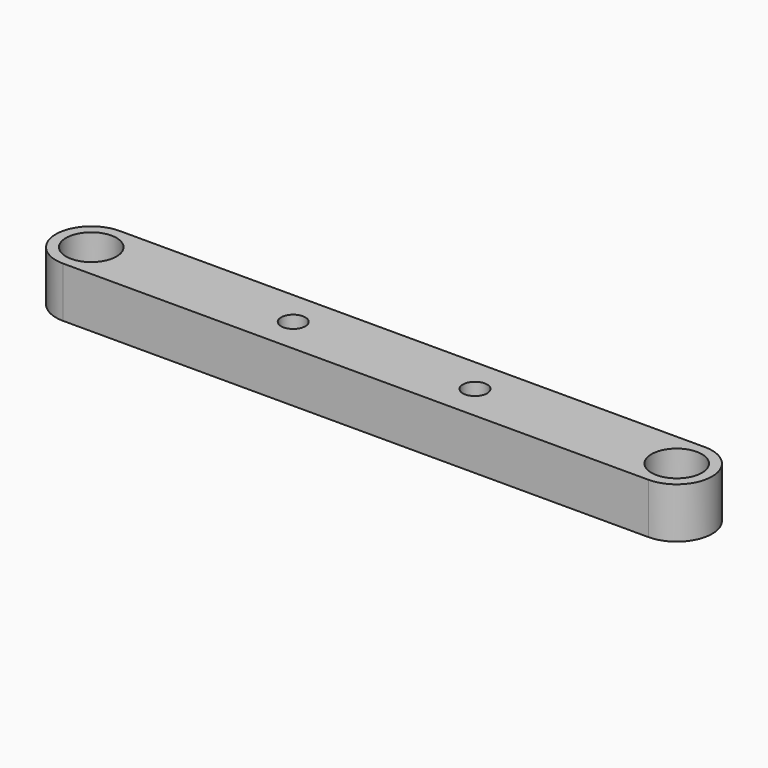
from build123d import *

# Parameters (mm, degrees)
SKETCH_R     = 2.5
PAD_DEPTH    = 5
SKETCH002_R  = 1.2
POCKET_DEPTH = 25.001


with BuildPart() as part:
    # Sketch → Pad (new body)
    with BuildSketch(Plane.XY):
        with BuildLine():
            ThreePointArc((0, 3.5), (-3.5, 0), (0, -3.5))
            Line((57.98, -3.5), (0, -3.5))
            ThreePointArc((57.98, -3.5), (61.48, 0), (57.98, 3.5))
            Line((0, 3.5), (57.98, 3.5))
        make_face()
        Circle(SKETCH_R, mode=Mode.SUBTRACT)
        with Locations((57.98, 0)):
            Circle(SKETCH_R, mode=Mode.SUBTRACT)
    extrude(amount=PAD_DEPTH)

    # Sketch002 → Pocket (cut, through all)
    with BuildSketch(Plane.XY.offset(25)):
        with Locations((20, 0)):
            Circle(SKETCH002_R)
        with Locations((38, 0)):
            Circle(SKETCH002_R)
    extrude(amount=-POCKET_DEPTH, mode=Mode.SUBTRACT)


solid = part.part
